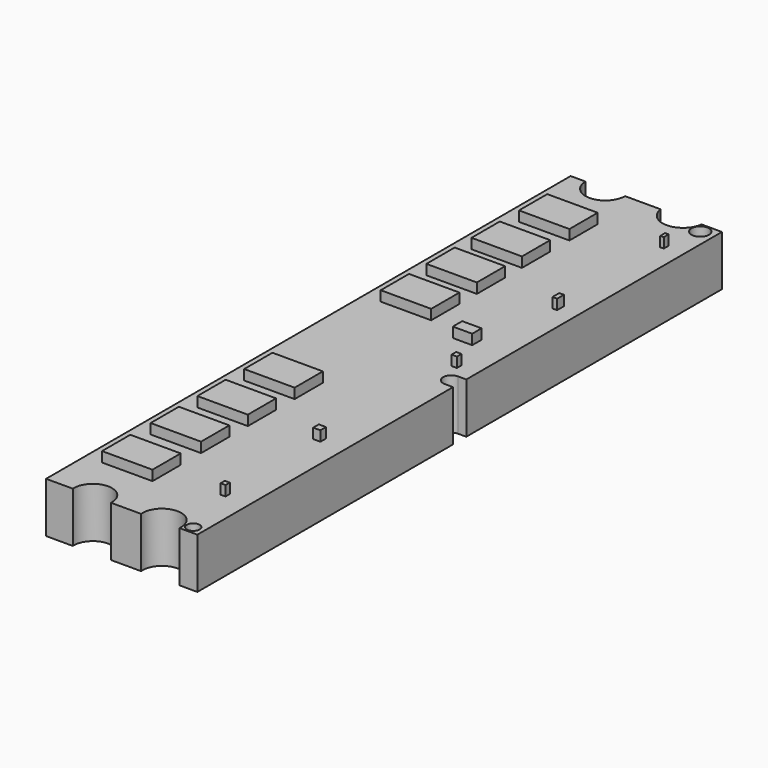
from build123d import *

# Parameters (mm, degrees)
F1_DEPTH = 1
F2_R     = 0.174096
F2_R_2   = 0.127508
F3_DEPTH = 1.001
F4_W     = 1
F4_H     = 0.7
F4_W_2   = 0.384185
F4_H_2   = 0.232839
F5_DEPTH = 0.2
F7_DEPTH = 1.001
F8_W     = 0.069853
F8_H     = 0.121337
F8_W_2   = 0.093136
F8_H_2   = 0.169292
F8_W_3   = 0.105232
F8_H_3   = 0.113234
F8_W_4   = 0.097446
F8_H_4   = 0.104777
F8_W_5   = 0.144014
F8_H_5   = 0.139706
F9_DEPTH = 0.2


with BuildPart() as f1:
    # F0 (on Top) → F1 (new body)
    with BuildSketch(Plane.XY):
        with BuildLine():
            Line((-24.902489, -49.29686), (-25.199003, -49.29686))
            Line((-25.199003, -49.29686), (-25.199003, -62.29686))
            Line((-25.199003, -62.29686), (-24.669482, -62.29686))
            ThreePointArc((-24.669482, -62.29686), (-24.2913, -61.893387), (-23.913119, -62.29686))
            Line((-23.913119, -62.29686), (-23.314611, -62.29686))
            ThreePointArc((-23.314611, -62.29686), (-22.93501, -61.872911), (-22.55541, -62.29686))
            Line((-22.55541, -62.29686), (-22.199003, -62.29686))
            Line((-22.199003, -62.29686), (-22.199003, -49.29686))
            Line((-22.199003, -49.29686), (-22.603517, -49.29686))
            ThreePointArc((-22.603517, -49.29686), (-23.008304, -49.655694), (-23.41309, -49.29686))
            Line((-23.41309, -49.29686), (-24.119699, -49.29686))
            ThreePointArc((-24.119699, -49.29686), (-24.511094, -49.688254), (-24.902489, -49.29686))
        make_face()
    extrude(amount=F1_DEPTH)

    # F2 (on Top) → F3 (cut, through all)
    with BuildSketch(Plane.XY):
        with Locations((-22.469135, -49.496643)):
            Circle(F2_R)
        with Locations((-22.408167, -62.138651)):
            Circle(F2_R_2)
    extrude(amount=F3_DEPTH, mode=Mode.SUBTRACT)

    # F4 (on face) → F5 (join)
    with BuildSketch(Plane.XY.offset(1)):
        with Locations((-24.362976, -50.646318)):
            Rectangle(F4_W, F4_H)
        with Locations((-24.362976, -51.822787)):
            Rectangle(F4_W, F4_H)
        with Locations((-24.362976, -52.940436)):
            Rectangle(F4_W, F4_H)
        with Locations((-24.362976, -54.072786)):
            Rectangle(F4_W, F4_H)
        with Locations((-23.037707, -54.56131)):
            Rectangle(F4_W_2, F4_H_2)
        with Locations((-24.362976, -60.980084)):
            Rectangle(F4_W, F4_H)
        with Locations((-24.362976, -59.776055)):
            Rectangle(F4_W, F4_H)
        with Locations((-24.362976, -58.616622)):
            Rectangle(F4_W, F4_H)
        with Locations((-24.362976, -57.457188)):
            Rectangle(F4_W, F4_H)
    extrude(amount=F5_DEPTH)

    # F6 (on face) → F7 (cut, through all)
    with BuildSketch(Plane.XY.offset(1)):
        with BuildLine():
            Line((-22.353487, -55.96097), (-22.373339, -55.96097))
            ThreePointArc((-22.373339, -55.96097), (-22.363413, -55.96127), (-22.353487, -55.96097))
        make_face()
        with BuildLine():
            Line((-22.199003, -55.63259), (-22.363273, -55.63245))
            ThreePointArc((-22.363273, -55.63245), (-22.527746, -55.791824), (-22.373339, -55.96097))
            Line((-22.373339, -55.96097), (-22.353487, -55.96097))
            Line((-22.353487, -55.96097), (-22.199003, -55.96097))
            Line((-22.199003, -55.96097), (-22.199003, -55.63259))
        make_face()
    extrude(amount=-F7_DEPTH, mode=Mode.SUBTRACT)

    # F8 (on face) → F9 (join)
    with BuildSketch(Plane.XY.offset(1)):
        with Locations((-22.587573, -50.235649)):
            Rectangle(F8_W, F8_H)
        with Locations((-22.599215, -52.85579)):
            Rectangle(F8_W_2, F8_H_2)
        with Locations((-22.605263, -55.366989)):
            Rectangle(F8_W_3, F8_H_3)
        with Locations((-22.706602, -60.973562)):
            Rectangle(F8_W_4, F8_H_4)
        with Locations((-22.729886, -58.604419)):
            Rectangle(F8_W_5, F8_H_5)
    extrude(amount=F9_DEPTH)


solid = f1.part
